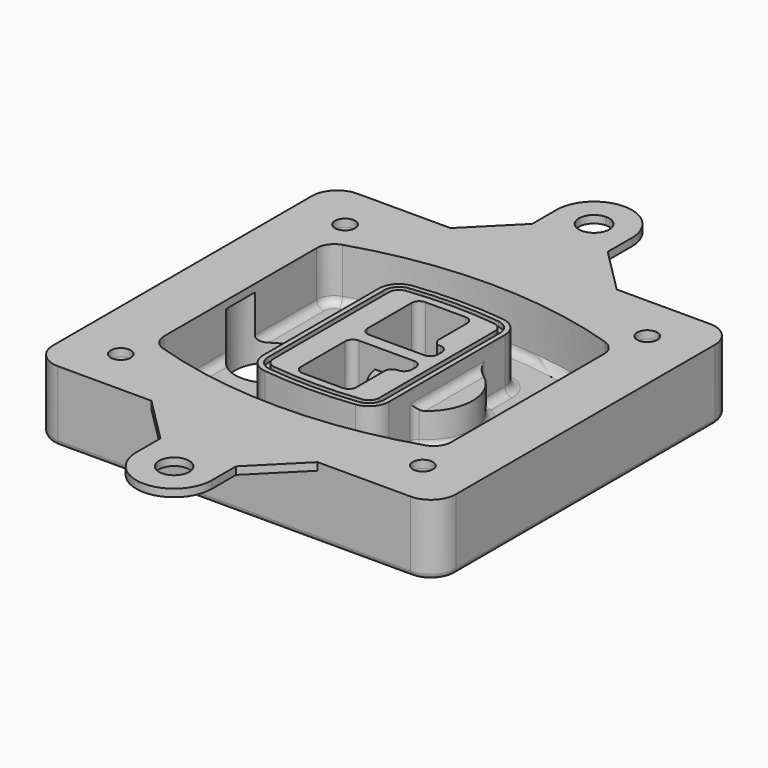
from build123d import *

# Parameters (mm, degrees)
F0_R      = 4
F1_DEPTH  = 25
F2_DEPTH  = 3
F3_DEPTH  = 18
F5_DEPTH  = 21
F6_DEPTH  = 2
F8_DEPTH  = 20
F9_DEPTH  = 16
F10_DEPTH = 25
F7_R      = 6
F7_R_2    = 4
F11_DEPTH = 6
F13_DEPTH = 9
F14_R     = 3
F15_R     = 2
F16_R     = 4
F16_R_2   = 6
F17_DEPTH = 3


with BuildPart() as f1:
    # F0 (on Top) → F1 (new body)
    with BuildSketch(Plane.XY):
        with BuildLine():
            ThreePointArc((-80, -64.25), (-77.0710678119, -71.3210678119), (-70, -74.25))
            Line((-70, -74.25), (70, -74.25))
            ThreePointArc((70, -74.25), (77.0710678119, -71.3210678119), (80, -64.25))
            Line((80, -64.25), (80, 64.25))
            ThreePointArc((80, 64.25), (77.0710678119, 71.3210678119), (70, 74.25))
            Line((70, 74.25), (-70, 74.25))
            ThreePointArc((-70, 74.25), (-77.0710678119, 71.3210678119), (-80, 64.25))
            Line((-80, 64.25), (-80, -64.25))
        make_face()
        with Locations((-60, -55.6875)):
            Circle(F0_R, mode=Mode.SUBTRACT)
        with Locations((60, -55.6875)):
            Circle(F0_R, mode=Mode.SUBTRACT)
        with Locations((-60, 55.6875)):
            Circle(F0_R, mode=Mode.SUBTRACT)
        with BuildLine():
            ThreePointArc((-64, 37.8679139701), (-61.3102148227, 46.1189163738), (-54.2744227621, 51.1994296398))
            ThreePointArc((-54.2744227621, 51.1994296398), (0, 59.6875), (54.2744227621, 51.1994296398))
            ThreePointArc((54.2744227621, 51.1994296398), (61.3102148227, 46.1189163738), (64, 37.8679139701))
            Line((64, 37.8679139701), (64, -37.8679139701))
            ThreePointArc((64, -37.8679139701), (61.3102148227, -46.1189163738), (54.2744227621, -51.1994296398))
            ThreePointArc((54.2744227621, -51.1994296398), (0, -59.6875), (-54.2744227621, -51.1994296398))
            ThreePointArc((-54.2744227621, -51.1994296398), (-61.3102148227, -46.1189163738), (-64, -37.8679139701))
            Line((-64, -37.8679139701), (-64, 37.8679139701))
        make_face(mode=Mode.SUBTRACT)
        with Locations((60, 55.6875)):
            Circle(F0_R, mode=Mode.SUBTRACT)
        with BuildLine():
            ThreePointArc((54.2744227621, 51.1994296398), (0, 59.6875), (-54.2744227621, 51.1994296398))
            ThreePointArc((-54.2744227621, 51.1994296398), (-61.3102148227, 46.1189163738), (-64, 37.8679139701))
            Line((-64, 37.8679139701), (-64, -37.8679139701))
            ThreePointArc((-64, -37.8679139701), (-61.3102148227, -46.1189163738), (-54.2744227621, -51.1994296398))
            ThreePointArc((-54.2744227621, -51.1994296398), (0, -59.6875), (54.2744227621, -51.1994296398))
            ThreePointArc((54.2744227621, -51.1994296398), (61.3102148227, -46.1189163738), (64, -37.8679139701))
            Line((64, -37.8679139701), (64, 37.8679139701))
            ThreePointArc((64, 37.8679139701), (61.3102148227, 46.1189163738), (54.2744227621, 51.1994296398))
        make_face()
        with BuildLine():
            Line((-60, -37.8679139701), (-60, 37.8679139701))
            ThreePointArc((-60, 37.8679139701), (-58.0787248733, 43.7614871156), (-53.0531591158, 47.3904251628))
            ThreePointArc((-53.0531591158, 47.3904251628), (0, 55.6875), (53.0531591158, 47.3904251628))
            ThreePointArc((53.0531591158, 47.3904251628), (58.0787248733, 43.7614871156), (60, 37.8679139701))
            Line((60, 37.8679139701), (60, -37.8679139701))
            ThreePointArc((60, -37.8679139701), (58.0787248733, -43.7614871156), (53.0531591158, -47.3904251628))
            ThreePointArc((53.0531591158, -47.3904251628), (0, -55.6875), (-53.0531591158, -47.3904251628))
            ThreePointArc((-53.0531591158, -47.3904251628), (-58.0787248733, -43.7614871156), (-60, -37.8679139701))
        make_face(mode=Mode.SUBTRACT)
        with BuildLine():
            ThreePointArc((-53.0531591158, 47.3904251628), (-58.0787248733, 43.7614871156), (-60, 37.8679139701))
            Line((-60, 37.8679139701), (-60, -37.8679139701))
            ThreePointArc((-60, -37.8679139701), (-58.0787248733, -43.7614871156), (-53.0531591158, -47.3904251628))
            ThreePointArc((-53.0531591158, -47.3904251628), (0, -55.6875), (53.0531591158, -47.3904251628))
            ThreePointArc((53.0531591158, -47.3904251628), (58.0787248733, -43.7614871156), (60, -37.8679139701))
            Line((60, -37.8679139701), (60, 37.8679139701))
            ThreePointArc((60, 37.8679139701), (58.0787248733, 43.7614871156), (53.0531591158, 47.3904251628))
            ThreePointArc((53.0531591158, 47.3904251628), (0, 55.6875), (-53.0531591158, 47.3904251628))
        make_face()
        with BuildLine():
            ThreePointArc((52.1372113811, 44.533671805), (55.6551074113, 41.993415172), (57, 37.8679139701))
            Line((57, 37.8679139701), (57, -37.8679139701))
            ThreePointArc((57, -37.8679139701), (55.6551074113, -41.993415172), (52.1372113811, -44.533671805))
            ThreePointArc((52.1372113811, -44.533671805), (0, -52.6875), (-52.1372113811, -44.533671805))
            ThreePointArc((-52.1372113811, -44.533671805), (-55.6551074113, -41.993415172), (-57, -37.8679139701))
            Line((-57, -37.8679139701), (-57, 37.8679139701))
            ThreePointArc((-57, 37.8679139701), (-55.6551074113, 41.993415172), (-52.1372113811, 44.533671805))
            ThreePointArc((-52.1372113811, 44.533671805), (0, 52.6875), (52.1372113811, 44.533671805))
        make_face(mode=Mode.SUBTRACT)
        with BuildLine():
            Line((57, -37.8679139701), (57, 37.8679139701))
            ThreePointArc((57, 37.8679139701), (55.6551074113, 41.993415172), (52.1372113811, 44.533671805))
            ThreePointArc((52.1372113811, 44.533671805), (0, 52.6875), (-52.1372113811, 44.533671805))
            ThreePointArc((-52.1372113811, 44.533671805), (-55.6551074113, 41.993415172), (-57, 37.8679139701))
            Line((-57, 37.8679139701), (-57, -37.8679139701))
            ThreePointArc((-57, -37.8679139701), (-55.6551074113, -41.993415172), (-52.1372113811, -44.533671805))
            ThreePointArc((-52.1372113811, -44.533671805), (0, -52.6875), (52.1372113811, -44.533671805))
            ThreePointArc((52.1372113811, -44.533671805), (55.6551074113, -41.993415172), (57, -37.8679139701))
        make_face()
    extrude(amount=-F1_DEPTH)

    # F0 (on Top) → F2 (join)
    with BuildSketch(Plane.XY):
        with BuildLine():
            ThreePointArc((-53.0531591158, 47.3904251628), (-58.0787248733, 43.7614871156), (-60, 37.8679139701))
            Line((-60, 37.8679139701), (-60, -37.8679139701))
            ThreePointArc((-60, -37.8679139701), (-58.0787248733, -43.7614871156), (-53.0531591158, -47.3904251628))
            ThreePointArc((-53.0531591158, -47.3904251628), (0, -55.6875), (53.0531591158, -47.3904251628))
            ThreePointArc((53.0531591158, -47.3904251628), (58.0787248733, -43.7614871156), (60, -37.8679139701))
            Line((60, -37.8679139701), (60, 37.8679139701))
            ThreePointArc((60, 37.8679139701), (58.0787248733, 43.7614871156), (53.0531591158, 47.3904251628))
            ThreePointArc((53.0531591158, 47.3904251628), (0, 55.6875), (-53.0531591158, 47.3904251628))
        make_face()
        with BuildLine():
            ThreePointArc((52.1372113811, 44.533671805), (55.6551074113, 41.993415172), (57, 37.8679139701))
            Line((57, 37.8679139701), (57, -37.8679139701))
            ThreePointArc((57, -37.8679139701), (55.6551074113, -41.993415172), (52.1372113811, -44.533671805))
            ThreePointArc((52.1372113811, -44.533671805), (0, -52.6875), (-52.1372113811, -44.533671805))
            ThreePointArc((-52.1372113811, -44.533671805), (-55.6551074113, -41.993415172), (-57, -37.8679139701))
            Line((-57, -37.8679139701), (-57, 37.8679139701))
            ThreePointArc((-57, 37.8679139701), (-55.6551074113, 41.993415172), (-52.1372113811, 44.533671805))
            ThreePointArc((-52.1372113811, 44.533671805), (0, 52.6875), (52.1372113811, 44.533671805))
        make_face(mode=Mode.SUBTRACT)
    extrude(amount=F2_DEPTH)

    # F0 (on Top) → F3 (cut)
    with BuildSketch(Plane.XY):
        with BuildLine():
            Line((57, -37.8679139701), (57, 37.8679139701))
            ThreePointArc((57, 37.8679139701), (55.6551074113, 41.993415172), (52.1372113811, 44.533671805))
            ThreePointArc((52.1372113811, 44.533671805), (0, 52.6875), (-52.1372113811, 44.533671805))
            ThreePointArc((-52.1372113811, 44.533671805), (-55.6551074113, 41.993415172), (-57, 37.8679139701))
            Line((-57, 37.8679139701), (-57, -37.8679139701))
            ThreePointArc((-57, -37.8679139701), (-55.6551074113, -41.993415172), (-52.1372113811, -44.533671805))
            ThreePointArc((-52.1372113811, -44.533671805), (0, -52.6875), (52.1372113811, -44.533671805))
            ThreePointArc((52.1372113811, -44.533671805), (55.6551074113, -41.993415172), (57, -37.8679139701))
        make_face()
    extrude(amount=-F3_DEPTH, mode=Mode.SUBTRACT)

    # F4 (on face) → F5 (join, through all)
    with BuildSketch(Plane.XY.offset(3)):
        with BuildLine():
            ThreePointArc((-25, -28.7063371133), (-22.9734015646, -34.0278475895), (-17.920381563, -36.6532168644))
            ThreePointArc((-17.920381563, -36.6532168644), (0, -37.6875), (17.920381563, -36.6532168644))
            ThreePointArc((17.920381563, -36.6532168644), (22.9734015646, -34.0278475895), (25, -28.7063371133))
            Line((25, -28.7063371133), (25, 28.7063371133))
            ThreePointArc((25, 28.7063371133), (22.9734015646, 34.0278475895), (17.920381563, 36.6532168644))
            ThreePointArc((17.920381563, 36.6532168644), (0, 37.6875), (-17.920381563, 36.6532168644))
            ThreePointArc((-17.920381563, 36.6532168644), (-22.9734015646, 34.0278475895), (-25, 28.7063371133))
            Line((-25, 28.7063371133), (-25, -28.7063371133))
        make_face()
        with BuildLine():
            ThreePointArc((17.6902861722, 34.6664969266), (21.4800511734, 32.6974699704), (23, 28.7063371133))
            Line((23, 28.7063371133), (23, -28.7063371133))
            ThreePointArc((23, -28.7063371133), (21.4800511734, -32.6974699704), (17.6902861722, -34.6664969266))
            ThreePointArc((17.6902861722, -34.6664969266), (0, -35.6875), (-17.6902861722, -34.6664969266))
            ThreePointArc((-17.6902861722, -34.6664969266), (-21.4800511734, -32.6974699704), (-23, -28.7063371133))
            Line((-23, -28.7063371133), (-23, 28.7063371133))
            ThreePointArc((-23, 28.7063371133), (-21.4800511734, 32.6974699704), (-17.6902861722, 34.6664969266))
            ThreePointArc((-17.6902861722, 34.6664969266), (0, 35.6875), (17.6902861722, 34.6664969266))
        make_face(mode=Mode.SUBTRACT)
        with BuildLine():
            Line((23, -28.7063371133), (23, 28.7063371133))
            ThreePointArc((23, 28.7063371133), (21.4800511734, 32.6974699704), (17.6902861722, 34.6664969266))
            ThreePointArc((17.6902861722, 34.6664969266), (0, 35.6875), (-17.6902861722, 34.6664969266))
            ThreePointArc((-17.6902861722, 34.6664969266), (-21.4800511734, 32.6974699704), (-23, 28.7063371133))
            Line((-23, 28.7063371133), (-23, -28.7063371133))
            ThreePointArc((-23, -28.7063371133), (-21.4800511734, -32.6974699704), (-17.6902861722, -34.6664969266))
            ThreePointArc((-17.6902861722, -34.6664969266), (0, -35.6875), (17.6902861722, -34.6664969266))
            ThreePointArc((17.6902861722, -34.6664969266), (21.4800511734, -32.6974699704), (23, -28.7063371133))
        make_face()
        with BuildLine():
            ThreePointArc((17.4601907815, 32.6797769888), (19.9867007823, 31.3670923514), (21, 28.7063371133))
            Line((21, 28.7063371133), (21, -28.7063371133))
            ThreePointArc((21, -28.7063371133), (19.9867007823, -31.3670923514), (17.4601907815, -32.6797769888))
            ThreePointArc((17.4601907815, -32.6797769888), (0, -33.6875), (-17.4601907815, -32.6797769888))
            ThreePointArc((-17.4601907815, -32.6797769888), (-19.9867007823, -31.3670923514), (-21, -28.7063371133))
            Line((-21, -28.7063371133), (-21, 28.7063371133))
            ThreePointArc((-21, 28.7063371133), (-19.9867007823, 31.3670923514), (-17.4601907815, 32.6797769888))
            ThreePointArc((-17.4601907815, 32.6797769888), (0, 33.6875), (17.4601907815, 32.6797769888))
        make_face(mode=Mode.SUBTRACT)
        with BuildLine():
            Line((21, -28.7063371133), (21, 28.7063371133))
            ThreePointArc((21, 28.7063371133), (19.9867007823, 31.3670923514), (17.4601907815, 32.6797769888))
            ThreePointArc((17.4601907815, 32.6797769888), (0, 33.6875), (-17.4601907815, 32.6797769888))
            ThreePointArc((-17.4601907815, 32.6797769888), (-19.9867007823, 31.3670923514), (-21, 28.7063371133))
            Line((-21, 28.7063371133), (-21, -28.7063371133))
            ThreePointArc((-21, -28.7063371133), (-19.9867007823, -31.3670923514), (-17.4601907815, -32.6797769888))
            ThreePointArc((-17.4601907815, -32.6797769888), (0, -33.6875), (17.4601907815, -32.6797769888))
            ThreePointArc((17.4601907815, -32.6797769888), (19.9867007823, -31.3670923514), (21, -28.7063371133))
        make_face()
        with BuildLine():
            Line((-8, -2.5), (14, -2.5))
            ThreePointArc((14, -2.5), (16.1213203436, -3.3786796564), (17, -5.5))
            Line((17, -5.5), (17, -7.5))
            ThreePointArc((17, -7.5), (16.1213203436, -9.6213203436), (14, -10.5))
            ThreePointArc((14, -10.5), (11.8786796564, -11.3786796564), (11, -13.5))
            Line((11, -13.5), (11, -27.5))
            ThreePointArc((11, -27.5), (10.1213203436, -29.6213203436), (8, -30.5))
            Line((8, -30.5), (-8, -30.5))
            ThreePointArc((-8, -30.5), (-10.1213203436, -29.6213203436), (-11, -27.5))
            Line((-11, -27.5), (-11, -5.5))
            ThreePointArc((-11, -5.5), (-10.1213203436, -3.3786796564), (-8, -2.5))
        make_face(mode=Mode.SUBTRACT)
        with BuildLine():
            ThreePointArc((-8, 2.5), (-10.1213203436, 3.3786796564), (-11, 5.5))
            Line((-11, 5.5), (-11, 27.5))
            ThreePointArc((-11, 27.5), (-10.1213203436, 29.6213203436), (-8, 30.5))
            Line((-8, 30.5), (8, 30.5))
            ThreePointArc((8, 30.5), (10.1213203436, 29.6213203436), (11, 27.5))
            Line((11, 27.5), (11, 13.5))
            ThreePointArc((11, 13.5), (11.8786796564, 11.3786796564), (14, 10.5))
            ThreePointArc((14, 10.5), (16.1213203436, 9.6213203436), (17, 7.5))
            Line((17, 7.5), (17, 5.5))
            ThreePointArc((17, 5.5), (16.1213203436, 3.3786796564), (14, 2.5))
            Line((14, 2.5), (-8, 2.5))
        make_face(mode=Mode.SUBTRACT)
    extrude(amount=-F5_DEPTH)

    # F4 (on face) → F6 (cut)
    with BuildSketch(Plane.XY.offset(3)):
        with BuildLine():
            Line((23, -28.7063371133), (23, 28.7063371133))
            ThreePointArc((23, 28.7063371133), (21.4800511734, 32.6974699704), (17.6902861722, 34.6664969266))
            ThreePointArc((17.6902861722, 34.6664969266), (0, 35.6875), (-17.6902861722, 34.6664969266))
            ThreePointArc((-17.6902861722, 34.6664969266), (-21.4800511734, 32.6974699704), (-23, 28.7063371133))
            Line((-23, 28.7063371133), (-23, -28.7063371133))
            ThreePointArc((-23, -28.7063371133), (-21.4800511734, -32.6974699704), (-17.6902861722, -34.6664969266))
            ThreePointArc((-17.6902861722, -34.6664969266), (0, -35.6875), (17.6902861722, -34.6664969266))
            ThreePointArc((17.6902861722, -34.6664969266), (21.4800511734, -32.6974699704), (23, -28.7063371133))
        make_face()
        with BuildLine():
            ThreePointArc((17.4601907815, 32.6797769888), (19.9867007823, 31.3670923514), (21, 28.7063371133))
            Line((21, 28.7063371133), (21, -28.7063371133))
            ThreePointArc((21, -28.7063371133), (19.9867007823, -31.3670923514), (17.4601907815, -32.6797769888))
            ThreePointArc((17.4601907815, -32.6797769888), (0, -33.6875), (-17.4601907815, -32.6797769888))
            ThreePointArc((-17.4601907815, -32.6797769888), (-19.9867007823, -31.3670923514), (-21, -28.7063371133))
            Line((-21, -28.7063371133), (-21, 28.7063371133))
            ThreePointArc((-21, 28.7063371133), (-19.9867007823, 31.3670923514), (-17.4601907815, 32.6797769888))
            ThreePointArc((-17.4601907815, 32.6797769888), (0, 33.6875), (17.4601907815, 32.6797769888))
        make_face(mode=Mode.SUBTRACT)
    extrude(amount=-F6_DEPTH, mode=Mode.SUBTRACT)

    # F7 (on face) → F8 (join)
    with BuildSketch(Plane(origin=(0, 0, -25), x_dir=(1, 0, 0), z_dir=(0, 0, -1))):
        with BuildLine():
            ThreePointArc((3.28842436, 0), (16.7567035675, 13.4682792075), (30.224982775, 0))
            Line((30.224982775, 0), (35.224982775, 0))
            ThreePointArc((35.224982775, 0), (16.7567035675, 18.4682792075), (-1.71157564, 0))
            Line((-1.71157564, 0), (3.28842436, 0))
        make_face()
        with BuildLine():
            Line((3.28842436, 0), (30.224982775, 0))
            ThreePointArc((30.224982775, 0), (16.7567035675, 13.4682792075), (3.28842436, 0))
        make_face()
        with BuildLine():
            ThreePointArc((3.28842436, 0), (16.7567035675, -13.4682792075), (30.224982775, 0))
            Line((30.224982775, 0), (3.28842436, 0))
        make_face()
        with BuildLine():
            Line((35.224982775, 0), (30.224982775, 0))
            ThreePointArc((30.224982775, 0), (16.7567035675, -13.4682792075), (3.28842436, 0))
            Line((3.28842436, 0), (-1.71157564, 0))
            ThreePointArc((-1.71157564, 0), (16.7567035675, -18.4682792075), (35.224982775, 0))
        make_face()
    extrude(amount=-F8_DEPTH)

    # F7 (on face) → F9 (cut)
    with BuildSketch(Plane(origin=(0, 0, -25), x_dir=(1, 0, 0), z_dir=(0, 0, -1))):
        with BuildLine():
            Line((3.28842436, 0), (30.224982775, 0))
            ThreePointArc((30.224982775, 0), (16.7567035675, 13.4682792075), (3.28842436, 0))
        make_face()
        with BuildLine():
            ThreePointArc((3.28842436, 0), (16.7567035675, -13.4682792075), (30.224982775, 0))
            Line((30.224982775, 0), (3.28842436, 0))
        make_face()
    extrude(amount=-F9_DEPTH, mode=Mode.SUBTRACT)

    # F7 (on face) → F10 (cut)
    with BuildSketch(Plane(origin=(0, 0, -25), x_dir=(1, 0, 0), z_dir=(0, 0, -1))):
        with BuildLine():
            Line((-59.0318229325, 0), (-32.0952645175, 0))
            ThreePointArc((-32.0952645175, 0), (-45.563543725, 13.4682792075), (-59.0318229325, 0))
        make_face()
        with BuildLine():
            ThreePointArc((-59.0318229325, 0), (-45.563543725, -13.4682792075), (-32.0952645175, 0))
            Line((-32.0952645175, 0), (-59.0318229325, 0))
        make_face()
    extrude(amount=-F10_DEPTH, mode=Mode.SUBTRACT)

    # F7 (on face) → F11 (cut)
    with BuildSketch(Plane(origin=(0, 0, -25), x_dir=(1, 0, 0), z_dir=(0, 0, -1))):
        with Locations((60, -55.6875)):
            Circle(F7_R)
        with Locations((60, -55.6875)):
            Circle(F7_R_2, mode=Mode.SUBTRACT)
        with Locations((60, -55.6875)):
            Circle(F7_R)
        with Locations((60, -55.6875)):
            Circle(F7_R_2, mode=Mode.SUBTRACT)
        with Locations((-60, -55.6875)):
            Circle(F7_R)
        with Locations((-60, -55.6875)):
            Circle(F7_R_2, mode=Mode.SUBTRACT)
        with Locations((-60, -55.6875)):
            Circle(F7_R)
        with Locations((-60, -55.6875)):
            Circle(F7_R_2, mode=Mode.SUBTRACT)
        with Locations((-60, 55.6875)):
            Circle(F7_R)
        with Locations((-60, 55.6875)):
            Circle(F7_R_2, mode=Mode.SUBTRACT)
        with Locations((-60, 55.6875)):
            Circle(F7_R)
        with Locations((-60, 55.6875)):
            Circle(F7_R_2, mode=Mode.SUBTRACT)
        with Locations((60, 55.6875)):
            Circle(F7_R)
        with Locations((60, 55.6875)):
            Circle(F7_R_2, mode=Mode.SUBTRACT)
        with Locations((60, 55.6875)):
            Circle(F7_R)
        with Locations((60, 55.6875)):
            Circle(F7_R_2, mode=Mode.SUBTRACT)
    extrude(amount=-F11_DEPTH, mode=Mode.SUBTRACT)

    # F12 (on face) → F13 (cut, through all)
    with BuildSketch(Plane(origin=(0, 0, -9), x_dir=(1, 0, 0), z_dir=(0, 0, -1))):
        with BuildLine():
            Line((11, 13.5), (11, 17.5481537753))
            ThreePointArc((11, 17.5481537753), (2.5696536419, 11.8239143813), (-1.5415842455, 2.5))
            Line((-1.5415842455, 2.5), (3.5224848595, 2.5))
            ThreePointArc((3.5224848595, 2.5), (6.1857188154, 8.3455872281), (11.2536447004, 12.2927168648))
            ThreePointArc((11.2536447004, 12.2927168648), (11.0640958889, 12.8831798879), (11, 13.5))
        make_face()
        with BuildLine():
            ThreePointArc((11.2536447004, -12.2927168648), (6.1857188154, -8.3455872281), (3.5224848595, -2.5))
            Line((3.5224848595, -2.5), (-1.5415842455, -2.5))
            ThreePointArc((-1.5415842455, -2.5), (2.5696536419, -11.8239143813), (11, -17.5481537753))
            Line((11, -17.5481537753), (11, -13.5))
            ThreePointArc((11, -13.5), (11.0640958889, -12.8831798879), (11.2536447004, -12.2927168648))
        make_face()
        with BuildLine():
            ThreePointArc((11.2536447004, 12.2927168648), (6.1857188154, 8.3455872281), (3.5224848595, 2.5))
            Line((3.5224848595, 2.5), (14, 2.5))
            ThreePointArc((14, 2.5), (16.1213203436, 3.3786796564), (17, 5.5))
            Line((17, 5.5), (17, 7.5))
            ThreePointArc((17, 7.5), (16.1213203436, 9.6213203436), (14, 10.5))
            ThreePointArc((14, 10.5), (12.3601599782, 10.9878446101), (11.2536447004, 12.2927168648))
        make_face()
        with BuildLine():
            Line((14, -2.5), (3.5224848595, -2.5))
            ThreePointArc((3.5224848595, -2.5), (6.1857188154, -8.3455872281), (11.2536447004, -12.2927168648))
            ThreePointArc((11.2536447004, -12.2927168648), (12.3601599782, -10.9878446101), (14, -10.5))
            ThreePointArc((14, -10.5), (16.1213203436, -9.6213203436), (17, -7.5))
            Line((17, -7.5), (17, -5.5))
            ThreePointArc((17, -5.5), (16.1213203436, -3.3786796564), (14, -2.5))
        make_face()
    extrude(amount=F13_DEPTH, mode=Mode.SUBTRACT)

    # F14
    f14_edges = [f1.edges().sort_by_distance(p)[0] for p in [
        (-57, -22.490712, -18),
        (-57, 22.490712, -18),
        (25, 0, -5),
        (25, 16.526506, -11.5),
        (25, -16.526506, -11.5),
        (25, -22.616422, -18),
        (35.224983, 0, -18),
    ]]
    fillet(f14_edges, radius=F14_R)

    # F15
    f15_edges = [f1.edges().sort_by_distance(p)[0] for p in [
        (0, -74.25, -25),
    ]]
    fillet(f15_edges, radius=F15_R)

    # F16 (on Top) → F17 (join, through all)
    with BuildSketch(Plane.XY):
        with BuildLine():
            Line((-32.9714662868, 74.25), (-70, 74.25))
            ThreePointArc((-70, 74.25), (-77.0710678119, 71.3210678119), (-80, 64.25))
            Line((-80, 64.25), (-80, 0))
            Line((-80, 0), (-60, 0))
            Line((-60, 0), (-60, 37.8679139701))
            ThreePointArc((-60, 37.8679139701), (-58.0787248733, 43.7614871156), (-53.0531591158, 47.3904251628))
            ThreePointArc((-53.0531591158, 47.3904251628), (0, 55.6875), (53.0531591158, 47.3904251628))
            ThreePointArc((53.0531591158, 47.3904251628), (58.0787248733, 43.7614871156), (60, 37.8679139701))
            Line((60, 37.8679139701), (60, 0))
            Line((60, 0), (80, 0))
            Line((80, 0), (80, 64.25))
            ThreePointArc((80, 64.25), (77.0710678119, 71.3210678119), (70, 74.25))
            Line((70, 74.25), (33.0285337132, 74.25))
            Line((33.0285337132, 74.25), (-32.9714662868, 74.25))
        make_face()
        with Locations((-60, 55.6875)):
            Circle(F16_R, mode=Mode.SUBTRACT)
        with Locations((60, 55.6875)):
            Circle(F16_R, mode=Mode.SUBTRACT)
        with BuildLine():
            Line((-14.9714662868, 92.25), (-32.9714662868, 74.25))
            Line((-32.9714662868, 74.25), (33.0285337132, 74.25))
            Line((33.0285337132, 74.25), (15.0285337132, 92.25))
            Line((15.0285337132, 92.25), (15.0285337132, 104.25))
            ThreePointArc((15.0285337132, 104.25), (0.0285337132, 119.25), (-14.9714662868, 104.25))
            Line((-14.9714662868, 104.25), (-14.9714662868, 92.25))
        make_face()
        with BuildLine():
            ThreePointArc((0.0285337132, 98.2500678481), (-6, 104.25), (0.0285337132, 110.2499321519))
            ThreePointArc((0.0285337132, 110.2499321519), (4.2896078999, 108.5027169127), (6.0570674264, 104.25))
            ThreePointArc((6.0570674264, 104.25), (4.2896078999, 99.9972830873), (0.0285337132, 98.2500678481))
        make_face(mode=Mode.SUBTRACT)
        with BuildLine():
            Line((-60, 0), (-80, 0))
            Line((-80, 0), (-80, -64.25))
            ThreePointArc((-80, -64.25), (-77.0710678119, -71.3210678119), (-70, -74.25))
            Line((-70, -74.25), (-69.9429325736, -74.25))
            Line((-69.9429325736, -74.25), (-32.9714662868, -74.25))
            Line((-32.9714662868, -74.25), (33.0285337132, -74.25))
            Line((33.0285337132, -74.25), (70, -74.25))
            ThreePointArc((70, -74.25), (77.0710678119, -71.3210678119), (80, -64.25))
            Line((80, -64.25), (80, 0))
            Line((80, 0), (60, 0))
            Line((60, 0), (60, -37.8679139701))
            ThreePointArc((60, -37.8679139701), (58.0787248733, -43.7614871156), (53.0531591158, -47.3904251628))
            ThreePointArc((53.0531591158, -47.3904251628), (0, -55.6875), (-53.0531591158, -47.3904251628))
            ThreePointArc((-53.0531591158, -47.3904251628), (-58.0787248733, -43.7614871156), (-60, -37.8679139701))
            Line((-60, -37.8679139701), (-60, 0))
        make_face()
        with Locations((-60, -55.6875)):
            Circle(F16_R, mode=Mode.SUBTRACT)
        with Locations((60, -55.6875)):
            Circle(F16_R, mode=Mode.SUBTRACT)
        with BuildLine():
            Line((33.0285337132, -74.25), (-32.9714662868, -74.25))
            Line((-32.9714662868, -74.25), (-14.9714662868, -92.25))
            Line((-14.9714662868, -92.25), (-14.9714662868, -104.25))
            ThreePointArc((-14.9714662868, -104.25), (0.0285337132, -119.25), (15.0285337132, -104.25))
            Line((15.0285337132, -104.25), (15.0285337132, -92.25))
            Line((15.0285337132, -92.25), (33.0285337132, -74.25))
        make_face()
        with Locations((0.0570674264, -104.25)):
            Circle(F16_R_2, mode=Mode.SUBTRACT)
    extrude(amount=F17_DEPTH)


solid = f1.part
